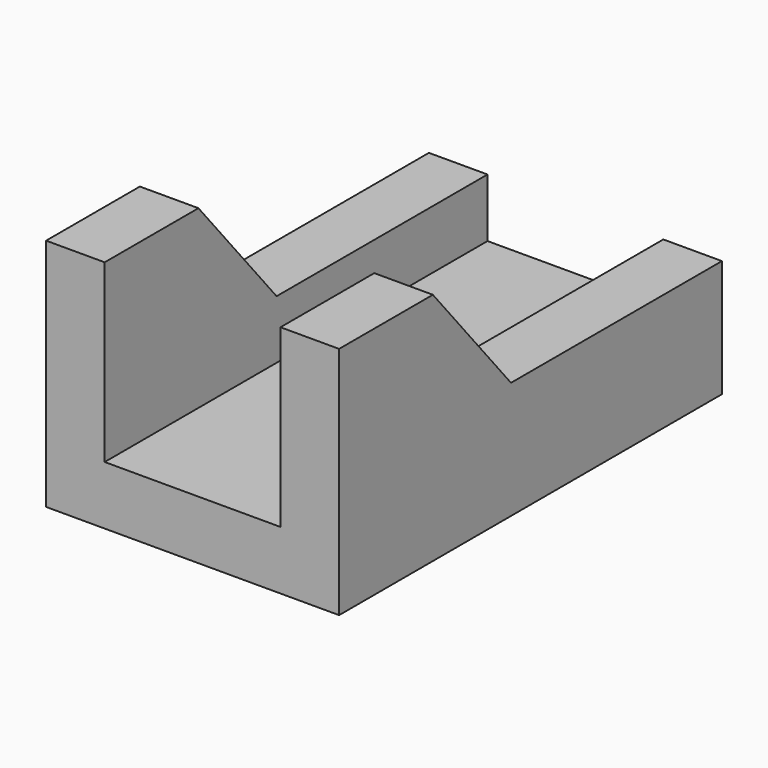
from build123d import *

# Parameters (mm, degrees)
F0_W     = 77.7748
F0_H     = 9.525
F1_DEPTH = 23.8125
F2_DEPTH = 9.525


with BuildPart() as f1:
    # F0 (on Right) → F1 (new body)
    with BuildSketch(Plane.YZ):
        with Locations((-38.8874, 4.7625)):
            Rectangle(F0_W, F0_H)
    extrude(amount=F1_DEPTH)

    # F0 (on Right) → F2 (join)
    with BuildSketch(Plane.YZ):
        with Locations((-38.8874, 4.7625)):
            Rectangle(F0_W, F0_H)
        Polygon((-77.7748, 38.1), (-77.7748, 9.525), (0, 9.525), (0, 19.05), (-42.8498, 19.05), (-58.7248, 38.1), align=None)
    extrude(amount=F2_DEPTH)

    # F3: F1 across face


with BuildPart() as f1_1:
    add(f1.part)
    add(f1.part.mirror(Plane(origin=(23.8125, -38.8874, 4.7625), x_dir=(0, 1, 0), z_dir=(1, 0, 0))))


solid = f1_1.part
